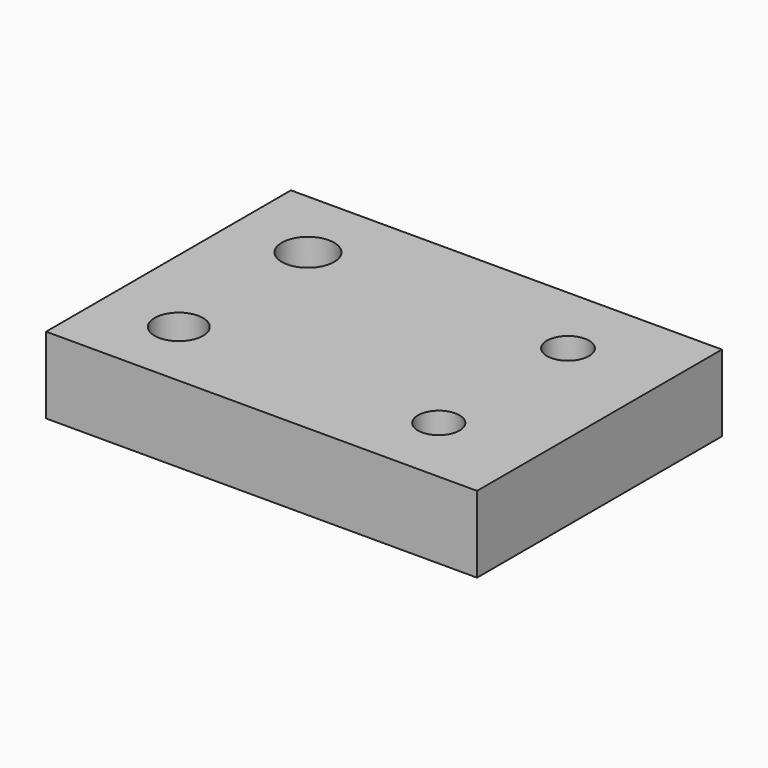
from build123d import *

# Parameters (mm, degrees)
F0_W     = 20.561229
F0_H     = 14.601454
F1_DEPTH = 3.64681
F2_R     = 1.248178
F2_R_2   = 1.002312
F2_R_3   = 1.155104
F2_R_4   = 0.990687
F3_DEPTH = 25.4


with BuildPart() as f1:
    # F0 (on Top) → F1 (new body)
    with BuildSketch(Plane.XY):
        with Locations((-51.403073, 32.480784)):
            Rectangle(F0_W, F0_H)
    extrude(amount=F1_DEPTH)

    # F2 (on Top) → F3 (cut)
    with BuildSketch(Plane.XY):
        with Locations((-58.064222, 36.274891)):
            Circle(F2_R)
        with Locations((-45.660626, 36.274891)):
            Circle(F2_R_2)
        with Locations((-58.064222, 28.569628)):
            Circle(F2_R_3)
        with Locations((-45.660626, 28.569628)):
            Circle(F2_R_4)
    extrude(amount=F3_DEPTH, mode=Mode.SUBTRACT)


solid = f1.part
